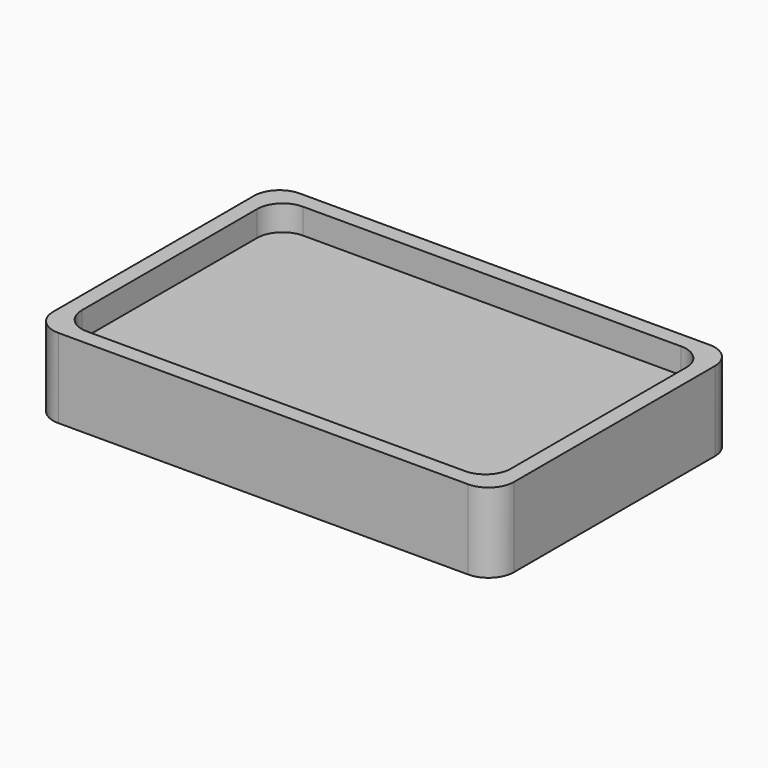
from build123d import *

# Parameters (mm, degrees)
F0_W     = 145
F0_H     = 95
F1_DEPTH = 25
F2_R     = 8
F3_W     = 135
F3_H     = 85
F4_DEPTH = 8
F5_R     = 8


with BuildPart() as f1:
    # F0 (on Top) → F1 (new body)
    with BuildSketch(Plane.XY):
        with Locations((-21.325343, 35.507629)):
            Rectangle(F0_W, F0_H)
    extrude(amount=F1_DEPTH)

    # F2
    f2_edges = [f1.edges().sort_by_distance(p)[0] for p in [
        (-93.825343, -11.992371, 12.5),
        (51.174657, -11.992371, 12.5),
        (51.174657, 83.007629, 12.5),
        (-93.825343, 83.007629, 12.5),
    ]]
    fillet(f2_edges, radius=F2_R)

    # F3 (on face) → F4 (cut)
    with BuildSketch(Plane.XY.offset(25)):
        with Locations((-21.325343, 35.507629)):
            Rectangle(F3_W, F3_H)
    extrude(amount=-F4_DEPTH, mode=Mode.SUBTRACT)

    # F5
    f5_edges = [f1.edges().sort_by_distance(p)[0] for p in [
        (-88.825343, 78.007629, 21),
        (-88.825343, -6.992371, 21),
        (46.174657, 78.007629, 21),
        (46.174657, -6.992371, 21),
    ]]
    fillet(f5_edges, radius=F5_R)


solid = f1.part
